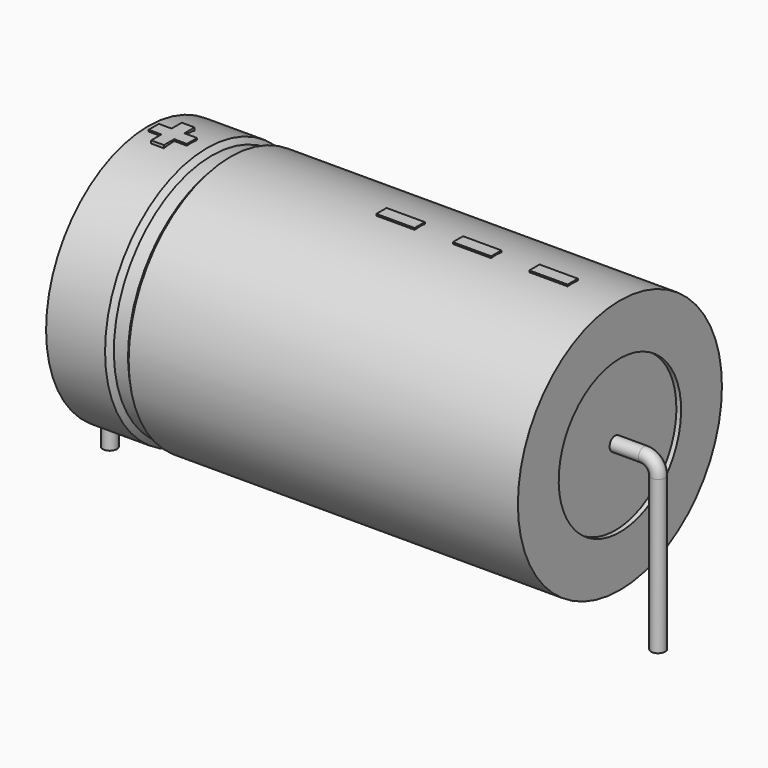
from build123d import *

# Parameters (mm, degrees)
SKETCH_R    = 0.55
SKETCH004_W = 3
SKETCH004_H = 1
PAD_DEPTH   = 10.1


with BuildPart() as sweep_body:
    # Sweep: sweep along a path in Sketch001
    with BuildLine(Plane.XZ) as sweep_path:
        Line((0, -3), (0, 9))
        ThreePointArc((0, 9), (0.322187, 9.777822), (1.100013, 10.1))
        Line((1.100013, 10.1), (41.9, 10.1))
        ThreePointArc((41.9, 10.1), (42.677817, 9.777817), (43, 9))
        Line((43, 9), (43, -3))
    # Sketch → Sweep (sweep)
    with BuildSketch(Plane.XY.offset(-2)):
        Circle(SKETCH_R)
    sweep(path=sweep_path.line)


with BuildPart() as revolution:
    # Sketch002 → Revolution (revolve)
    with BuildSketch(Plane.XZ):
        Polygon((3, 20.1), (3, 16.1), (40, 16.1), (40, 20.1), (9.475, 20.1), (9.105, 19.7), (7.995, 19.7), (7.625, 20.1), align=None)
    revolve(axis=Axis((6.97588, 0, 10.1), (1, 0, 0)))


with BuildPart() as revolution001:
    # Sketch003 → Revolution001 (revolve)
    with BuildSketch(Plane.XZ):
        Polygon((3.37, 19.7), (5.22, 19.7), (5.22, 11.1), (37.78, 11.1), (37.78, 19.7), (39.63, 19.7), (39.63, 10.1), (3.37, 10.1), align=None)
    revolve(axis=Axis((6.97588, 0, 10.1), (1, 0, 0)))


with BuildPart() as pad:
    # Sketch004 → Pad (new body)
    with BuildSketch(Plane.XY.offset(10.1)):
        with Locations((34.8, 0)):
            Rectangle(SKETCH004_W, SKETCH004_H)
        with Locations((28.8, 0)):
            Rectangle(SKETCH004_W, SKETCH004_H)
        with Locations((22.8, 0)):
            Rectangle(SKETCH004_W, SKETCH004_H)
        Polygon((4.444, 0.5), (3.444, 0.5), (3.444, -0.5), (4.444, -0.5), (4.444, -1.5), (5.444, -1.5), (5.444, -0.5), (6.444, -0.5), (6.444, 0.5), (5.444, 0.5), (5.444, 1.5), (4.444, 1.5), align=None)
    extrude(amount=PAD_DEPTH)


solid = Compound([sweep_body.part, revolution.part, revolution001.part, pad.part])
